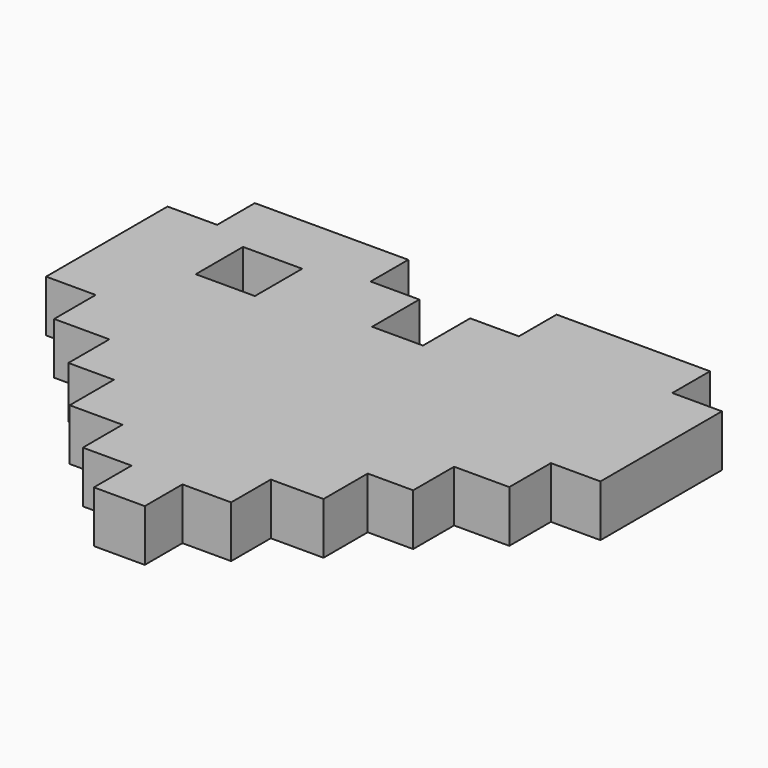
from build123d import *

# Parameters (mm, degrees)
F2_DEPTH = 3.5
F3_W     = 4
F3_H     = 4
F4_DEPTH = 3.501


with BuildPart() as f2:
    # F1 (on Top) → F2 (new body)
    with BuildSketch(Plane.XY):
        Polygon((-18.75, 3.990913), (-18.75, 0), (-18.75, -6.278892), (-15.39526, -6.278892), (-15.39526, -9.793691), (-11.660786, -9.793691), (-11.660786, -13.253571), (-8.585337, -13.253571), (-8.585337, -16.988048), (-5.015618, -16.988048), (-5.015618, -20.33809), (-1.720493, -20.33809), (-1.720493, -23.523377), (0, -23.523377), (1.720493, -23.523377), (1.720493, -20.33809), (5.015618, -20.33809), (5.015618, -16.988048), (8.585337, -16.988048), (8.585337, -13.253571), (11.660786, -13.253571), (11.660786, -9.793691), (15.39526, -9.793691), (15.39526, -6.278892), (18.75, -6.278892), (18.75, 0), (18.75, 3.990913), (15.39526, 3.990913), (15.39526, 7.1762), (5.015618, 7.1762), (5.015618, 3.990913), (1.720493, 3.990913), (1.720493, 0), (0, 0), (-1.720493, 0), (-1.720493, 3.990913), (-5.015618, 3.990913), (-5.015618, 7.1762), (-15.39526, 7.1762), (-15.39526, 3.990913), align=None)
    extrude(amount=F2_DEPTH)

    # F3 (on face) → F4 (cut, through all)
    with BuildSketch(Plane.XY.offset(3.5)):
        with Locations((-10.75, 0.8762)):
            Rectangle(F3_W, F3_H)
    extrude(amount=-F4_DEPTH, mode=Mode.SUBTRACT)


solid = f2.part
